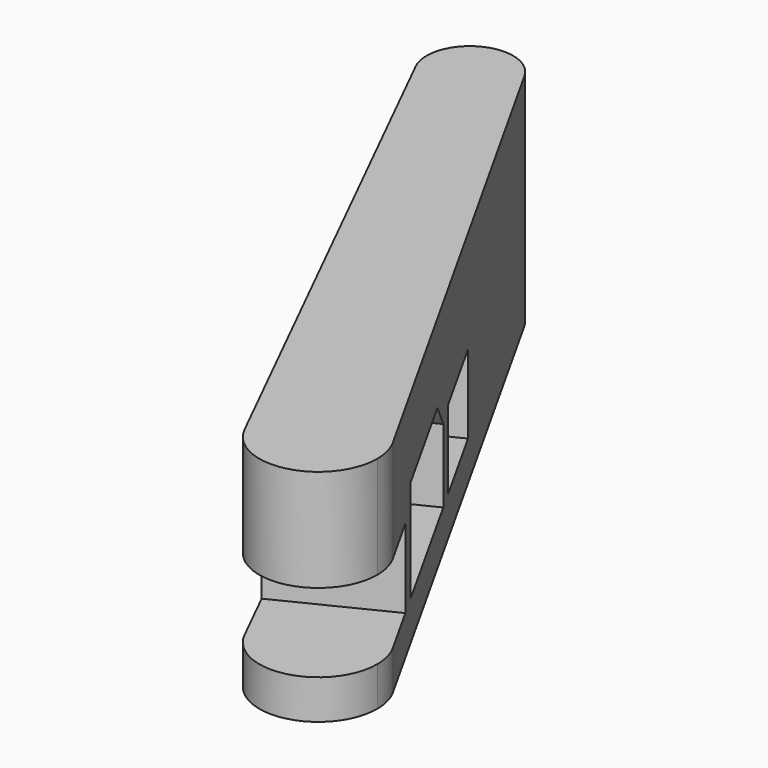
from build123d import *

# Parameters (mm, degrees)
F1_DEPTH = 28
F2_W     = 8
F2_H     = 10
F2_W_2   = 12.2721928373
F3_DEPTH = 25
F5_DEPTH = 25
F6_W     = 12
F6_H     = 10
F7_DEPTH = 25


with BuildPart() as f1:
    # F0 (on Top) → F1 (new body)
    with BuildSketch(Plane.XY):
        with BuildLine():
            ThreePointArc((-24.6996765713, -37.0061686144), (-16.2693027335, -40.9755360174), (-10.4808306919, -33.6734354945))
            ThreePointArc((-10.4808306919, -33.6734354945), (-10.7238019768, -31.7798848011), (-11.4369731527, -30.0090216931))
            Line((-11.4369731527, -30.0090216931), (-18.068324862, -33.5075951538))
            Line((-18.068324862, -33.5075951538), (-24.6996765713, -37.0061686144))
        make_face()
        with BuildLine():
            Line((-11.4369731527, -30.0090216931), (-50.5240537004, 39.792125391))
            ThreePointArc((-50.5240537004, 39.792125391), (-49.9919649413, 38.4837967792), (-49.81061565, 37.083098868))
            ThreePointArc((-49.81061565, 37.083098868), (-50.6007682567, 34.242792981), (-52.7441929341, 32.2185871305))
            Line((-52.7441929341, 32.2185871305), (-21.4804980317, -27.040010398))
            ThreePointArc((-21.4804980317, -27.040010398), (-15.8546767675, -26.4811153201), (-11.4369731527, -30.0090216931))
        make_face()
        with BuildLine():
            Line((-18.068324862, -33.5075951538), (-11.4369731527, -30.0090216931))
            ThreePointArc((-11.4369731527, -30.0090216931), (-15.8546767675, -26.4811153201), (-21.4804980317, -27.040010398))
            Line((-21.4804980317, -27.040010398), (-18.068324862, -33.5075951538))
        make_face()
        with BuildLine():
            Line((-60.2377675578, 34.639091078), (-24.6996765713, -37.0061686144))
            ThreePointArc((-24.6996765713, -37.0061686144), (-25.1177474282, -31.3681330201), (-21.4804980317, -27.040010398))
            Line((-21.4804980317, -27.040010398), (-52.7441929341, 32.2185871305))
            ThreePointArc((-52.7441929341, 32.2185871305), (-57.0011689379, 31.8493593272), (-60.2377675578, 34.639091078))
        make_face()
        with BuildLine():
            ThreePointArc((-21.4804980317, -27.040010398), (-25.1177474282, -31.3681330201), (-24.6996765713, -37.0061686144))
            Line((-24.6996765713, -37.0061686144), (-18.068324862, -33.5075951538))
            Line((-18.068324862, -33.5075951538), (-21.4804980317, -27.040010398))
        make_face()
        with BuildLine():
            ThreePointArc((-49.81061565, 37.083098868), (-49.9919649413, 38.4837967792), (-50.5240537004, 39.792125391))
            ThreePointArc((-50.5240537004, 39.792125391), (-57.8880915552, 41.9417630834), (-60.2377675578, 34.639091078))
            ThreePointArc((-60.2377675578, 34.639091078), (-57.0011689379, 31.8493593272), (-52.7441929341, 32.2185871305))
            ThreePointArc((-52.7441929341, 32.2185871305), (-50.6007682567, 34.242792981), (-49.81061565, 37.083098868))
        make_face()
    extrude(amount=F1_DEPTH)

    # F2 (on face) → F3 (cut)
    with BuildSketch(Plane(origin=(-34.5539816123, -17.1397598076, 0), x_dir=(0.4443650527, -0.8958458014, 0), z_dir=(-0.8958458014, -0.4443650527, 0))):
        with Locations((18.1761476979, 10)):
            Rectangle(F2_W, F2_H)
        with Locations((28.3122441165, 10)):
            Rectangle(F2_W_2, F2_H)
    extrude(amount=-F3_DEPTH, mode=Mode.SUBTRACT)

    # F4 (on face) → F5 (cut)
    with BuildSketch(Plane(origin=(-34.5539816123, -17.1397598076, 0), x_dir=(0.4443650527, -0.8958458014, 0), z_dir=(-0.8958458014, -0.4443650527, 0))):
        Polygon((-8.8238523021, 5), (11.1761476979, 5), (11.1761476979, 18), (-5.2653332241, 18), (-8.8238523021, 14.3358809873), align=None)
    extrude(amount=-F5_DEPTH, mode=Mode.SUBTRACT)

    # F6 (on face) → F7 (cut)
    with BuildSketch(Plane(origin=(-34.5539816123, -17.1397598076, 0), x_dir=(0.4443650527, -0.8958458014, 0), z_dir=(-0.8958458014, -0.4443650527, 0))):
        with Locations((-17.8238523021, 10)):
            Rectangle(F6_W, F6_H)
    extrude(amount=-F7_DEPTH, mode=Mode.SUBTRACT)


solid = f1.part
